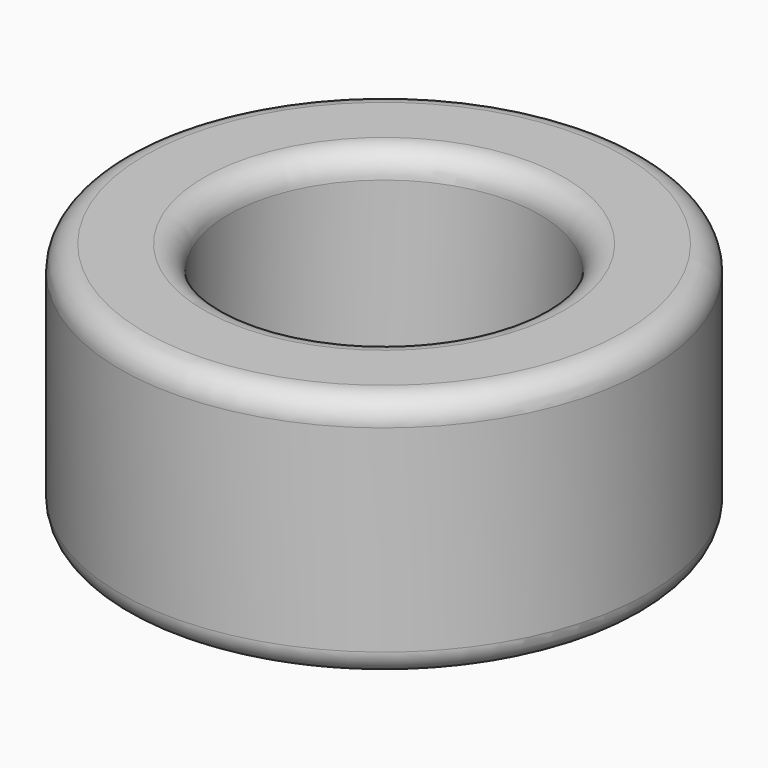
from build123d import *

# Parameters (mm, degrees)
F0_R     = 27.178
F0_R_2   = 16.002
F1_DEPTH = 25.4
F2_R     = 2.54
F3_R     = 2.54


with BuildPart() as f1:
    # F0 (on Top) → F1 (new body)
    with BuildSketch(Plane.XY):
        Circle(F0_R)
        Circle(F0_R_2, mode=Mode.SUBTRACT)
    extrude(amount=F1_DEPTH)

    # F2
    f2_edges = [f1.edges().sort_by_distance(p)[0] for p in [
        (-27.178, 0, 0),
    ]]
    fillet(f2_edges, radius=F2_R)

    # F3
    f3_edges = [f1.edges().sort_by_distance(p)[0] for p in [
        (-16.002, 0, 0),
        (-27.178, 0, 25.4),
        (-16.002, 0, 25.4),
    ]]
    fillet(f3_edges, radius=F3_R)


solid = f1.part
